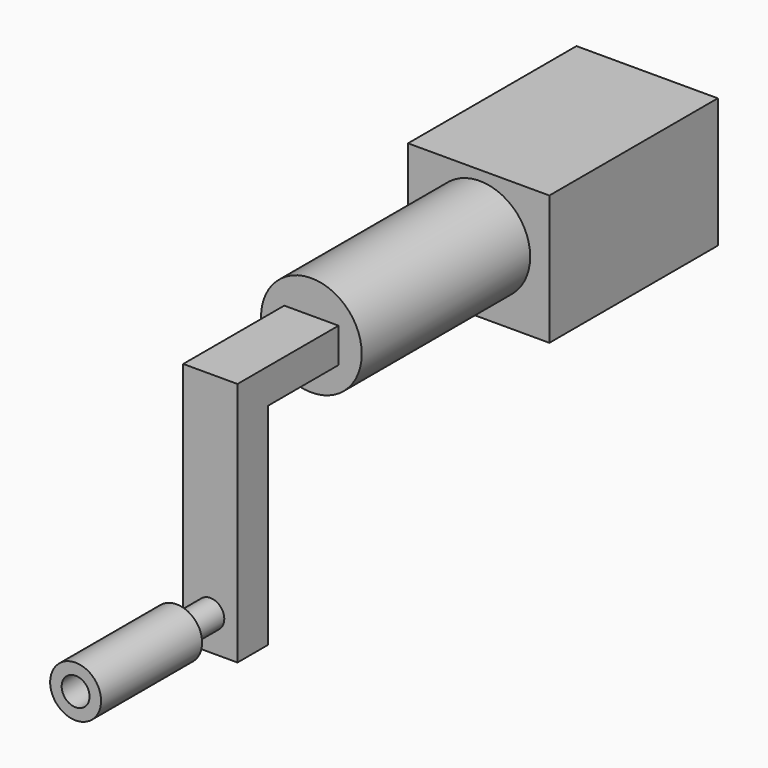
from build123d import *

# Parameters (mm, degrees)
F1_R      = 30.372934
F2_DEPTH  = 254
F0_W      = 85.260034
F0_H      = 78.249902
F3_DEPTH  = 127
F4_W      = 32.737821
F4_H      = 20.919922
F5_DEPTH  = 76.2
F6_W      = 32.737821
F6_H      = 22.9782
F7_DEPTH  = 127
F8_R      = 8.413126
F9_DEPTH  = 25.4
F10_R     = 15.35686
F10_R_2   = 8.413126
F11_DEPTH = 76.2
F12_W     = 67.353904
F12_H     = 54.895162
F13_DEPTH = 50.8


with BuildPart() as f2:
    # F1 (on face) → F2 (new body)
    with BuildSketch(Plane.XZ):
        with Locations((16.368911, 0)):
            Circle(F1_R)
    extrude(amount=F2_DEPTH)

    # F0 (on Front) → F3 (join)
    with BuildSketch(Plane.XZ):
        with Locations((15.692234, -2.852753)):
            Rectangle(F0_W, F0_H)
    extrude(amount=F3_DEPTH)

    # F4 (on face) → F5 (join)
    with BuildSketch(Plane.XZ.offset(254)):
        with Locations((16.36891, 0)):
            Rectangle(F4_W, F4_H)
    extrude(amount=F5_DEPTH)

    # F6 (on face) → F7 (join)
    with BuildSketch(Plane(origin=(0, 0, -10.459961), x_dir=(1, 0, 0), z_dir=(0, 0, -1))):
        with Locations((16.36891, 318.7109)):
            Rectangle(F6_W, F6_H)
    extrude(amount=F7_DEPTH)

    # F8 (on face) → F9 (join)
    with BuildSketch(Plane.XZ.offset(330.2)):
        with Locations((16.368911, -116.880521)):
            Circle(F8_R)
    extrude(amount=F9_DEPTH)

    # F12 (on face) → F13 (cut)
    with BuildSketch(Plane(origin=(0, 0, 0), x_dir=(-1, 0, 0), z_dir=(0, 1, 0))):
        with Locations((-15.692234, 0)):
            Rectangle(F12_W, F12_H)
    extrude(amount=-F13_DEPTH, mode=Mode.SUBTRACT)


with BuildPart() as f11:
    # F10 (on face) → F11 (new body)
    with BuildSketch(Plane.XZ.offset(355.6)):
        with Locations((16.368911, -116.880521)):
            Circle(F10_R)
        with Locations((16.368911, -116.880521)):
            Circle(F10_R_2, mode=Mode.SUBTRACT)
    extrude(amount=F11_DEPTH)


solid = Compound([f2.part, f11.part])
